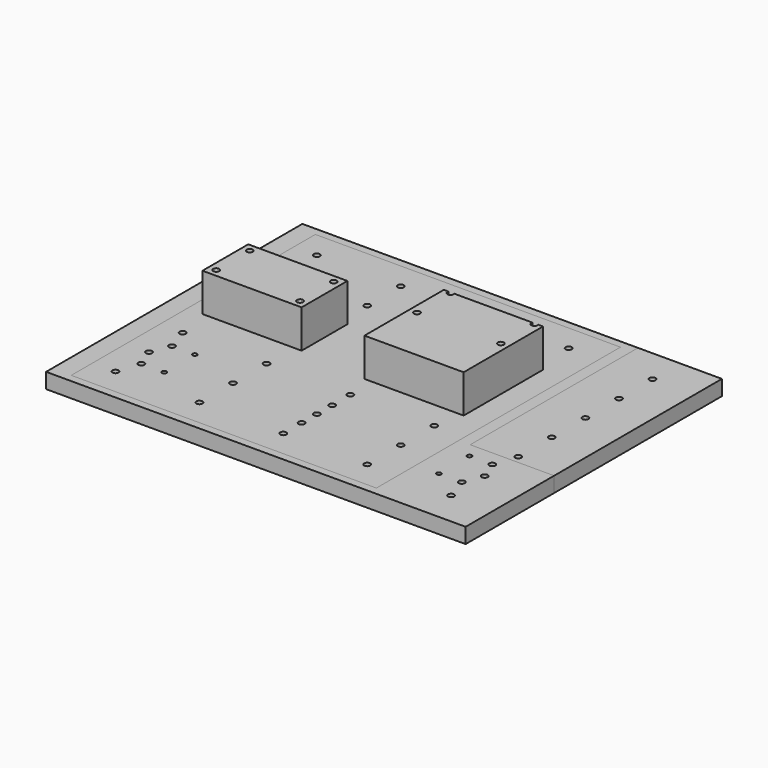
from build123d import *

# Parameters (mm, degrees)
F0_R     = 4
F0_R_2   = 3
F0_W     = 400
F0_H     = 400
F1_DEPTH = 20
F0_W_2   = 110
F0_H_2   = 275
F2_DEPTH = 20
F3_W     = 130
F3_H     = 75
F3_R     = 4
F4_DEPTH = 50


with BuildPart() as f1:
    # F0 (on Top) → F1 (new body)
    with BuildSketch(Plane.XY):
        Polygon((0, 420), (0, 0), (550, 0), (550, 145), (440, 145), (440, 420), align=None)
        with Locations((495, 45)):
            Circle(F0_R, mode=Mode.SUBTRACT)
        with Locations((455, 75)):
            Circle(F0_R_2, mode=Mode.SUBTRACT)
        with Locations((485, 75)):
            Circle(F0_R, mode=Mode.SUBTRACT)
        with Locations((495, 100)):
            Circle(F0_R, mode=Mode.SUBTRACT)
        with Locations((455, 125)):
            Circle(F0_R_2, mode=Mode.SUBTRACT)
        with Locations((485, 125)):
            Circle(F0_R, mode=Mode.SUBTRACT)
        with Locations((225, 210)):
            Rectangle(F0_W, F0_H, mode=Mode.SUBTRACT)
    extrude(amount=-F1_DEPTH)


with BuildPart() as f2:
    # F0 (on Top) → F2 (new body)
    with BuildSketch(Plane.XY):
        with Locations((225, 210)):
            Rectangle(F0_W, F0_H)
        with Locations((55, 45)):
            Circle(F0_R, mode=Mode.SUBTRACT)
        with Locations((65, 75)):
            Circle(F0_R, mode=Mode.SUBTRACT)
        with Locations((55, 100)):
            Circle(F0_R, mode=Mode.SUBTRACT)
        with Locations((95, 75)):
            Circle(F0_R_2, mode=Mode.SUBTRACT)
        with Locations((165, 45)):
            Circle(F0_R, mode=Mode.SUBTRACT)
        with Locations((165, 100)):
            Circle(F0_R, mode=Mode.SUBTRACT)
        with Locations((65, 125)):
            Circle(F0_R, mode=Mode.SUBTRACT)
        with Locations((55, 155)):
            Circle(F0_R, mode=Mode.SUBTRACT)
        with Locations((95, 125)):
            Circle(F0_R_2, mode=Mode.SUBTRACT)
        with Locations((165, 155)):
            Circle(F0_R, mode=Mode.SUBTRACT)
        with Locations((275, 45)):
            Circle(F0_R, mode=Mode.SUBTRACT)
        with Locations((385, 45)):
            Circle(F0_R, mode=Mode.SUBTRACT)
        with Locations((275, 75)):
            Circle(F0_R, mode=Mode.SUBTRACT)
        with Locations((275, 100)):
            Circle(F0_R, mode=Mode.SUBTRACT)
        with Locations((385, 100)):
            Circle(F0_R, mode=Mode.SUBTRACT)
        with Locations((275, 125)):
            Circle(F0_R, mode=Mode.SUBTRACT)
        with Locations((275, 155)):
            Circle(F0_R, mode=Mode.SUBTRACT)
        with Locations((385, 155)):
            Circle(F0_R, mode=Mode.SUBTRACT)
        with Locations((55, 210)):
            Circle(F0_R, mode=Mode.SUBTRACT)
        with Locations((55, 265)):
            Circle(F0_R, mode=Mode.SUBTRACT)
        with Locations((165, 210)):
            Circle(F0_R, mode=Mode.SUBTRACT)
        with Locations((165, 265)):
            Circle(F0_R, mode=Mode.SUBTRACT)
        with Locations((55, 320)):
            Circle(F0_R, mode=Mode.SUBTRACT)
        with Locations((55, 375)):
            Circle(F0_R, mode=Mode.SUBTRACT)
        with Locations((165, 320)):
            Circle(F0_R, mode=Mode.SUBTRACT)
        with Locations((165, 375)):
            Circle(F0_R, mode=Mode.SUBTRACT)
        with Locations((275, 210)):
            Circle(F0_R, mode=Mode.SUBTRACT)
        with Locations((385, 210)):
            Circle(F0_R, mode=Mode.SUBTRACT)
        with Locations((275, 265)):
            Circle(F0_R, mode=Mode.SUBTRACT)
        with Locations((385, 265)):
            Circle(F0_R, mode=Mode.SUBTRACT)
        with Locations((275, 320)):
            Circle(F0_R, mode=Mode.SUBTRACT)
        with Locations((385, 320)):
            Circle(F0_R, mode=Mode.SUBTRACT)
        with Locations((275, 375)):
            Circle(F0_R, mode=Mode.SUBTRACT)
        with Locations((385, 375)):
            Circle(F0_R, mode=Mode.SUBTRACT)
        with Locations((495, 282.5)):
            Rectangle(F0_W_2, F0_H_2)
        with Locations((495, 155)):
            Circle(F0_R, mode=Mode.SUBTRACT)
        with Locations((495, 210)):
            Circle(F0_R, mode=Mode.SUBTRACT)
        with Locations((495, 265)):
            Circle(F0_R, mode=Mode.SUBTRACT)
        with Locations((495, 320)):
            Circle(F0_R, mode=Mode.SUBTRACT)
        with Locations((495, 375)):
            Circle(F0_R, mode=Mode.SUBTRACT)
    extrude(amount=-F2_DEPTH)


with BuildPart() as f4:
    # F3 (on Top) → F4 (new body)
    with BuildSketch(Plane.XY):
        with Locations((110, 237.5)):
            Rectangle(F3_W, F3_H)
        with Locations((55, 210)):
            Circle(F3_R, mode=Mode.SUBTRACT)
        with Locations((165, 210)):
            Circle(F3_R, mode=Mode.SUBTRACT)
        with Locations((55, 265)):
            Circle(F3_R, mode=Mode.SUBTRACT)
        with Locations((165, 265)):
            Circle(F3_R, mode=Mode.SUBTRACT)
        with BuildLine():
            Line((270.692298, 321.266758), (264.400226, 321.266758))
            Line((264.400226, 321.266758), (264.400226, 191.266758))
            Line((264.400226, 191.266758), (394.400226, 191.266758))
            Line((394.400226, 191.266758), (394.400226, 321.266758))
            Line((394.400226, 321.266758), (388.108155, 321.266758))
            ThreePointArc((388.108155, 321.266758), (388.32653, 320.530628), (388.400226, 319.766335))
            ThreePointArc((388.400226, 319.766335), (383.635934, 315.840032), (380.692298, 321.266758))
            Line((380.692298, 321.266758), (278.108155, 321.266758))
            ThreePointArc((278.108155, 321.266758), (278.32653, 320.530628), (278.400226, 319.766335))
            ThreePointArc((278.400226, 319.766335), (273.635934, 315.840032), (270.692298, 321.266758))
        make_face()
        with Locations((274.400226, 264.766335)):
            Circle(F3_R, mode=Mode.SUBTRACT)
        with Locations((384.400226, 264.766335)):
            Circle(F3_R, mode=Mode.SUBTRACT)
    extrude(amount=F4_DEPTH)


solid = Compound([f1.part, f2.part, f4.part])
